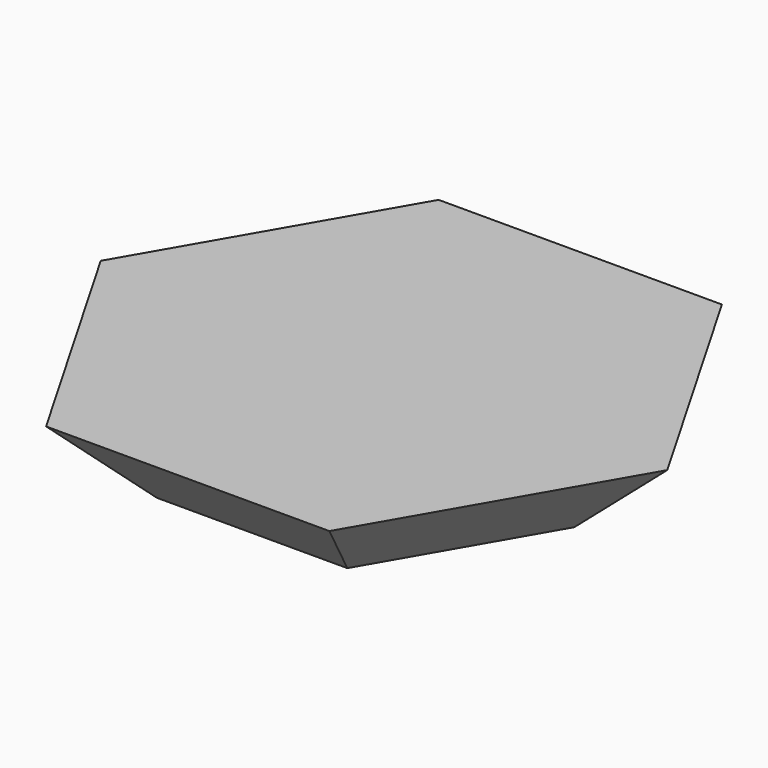
from build123d import *

# Parameters (mm, degrees)
F1_DEPTH = 21.59
F1_TAPER = -45


with BuildPart() as f1:
    # F0 (on Top) → F1 (new body)
    with BuildSketch(Plane.XY):
        Polygon((-25.524482131, 44.2096998878), (-51.048964262, 0), (-25.524482131, -44.2096998878), (25.524482131, -44.2096998878), (51.048964262, 0), (25.524482131, 44.2096998878), align=None)
    extrude(amount=F1_DEPTH, taper=F1_TAPER)


solid = f1.part
